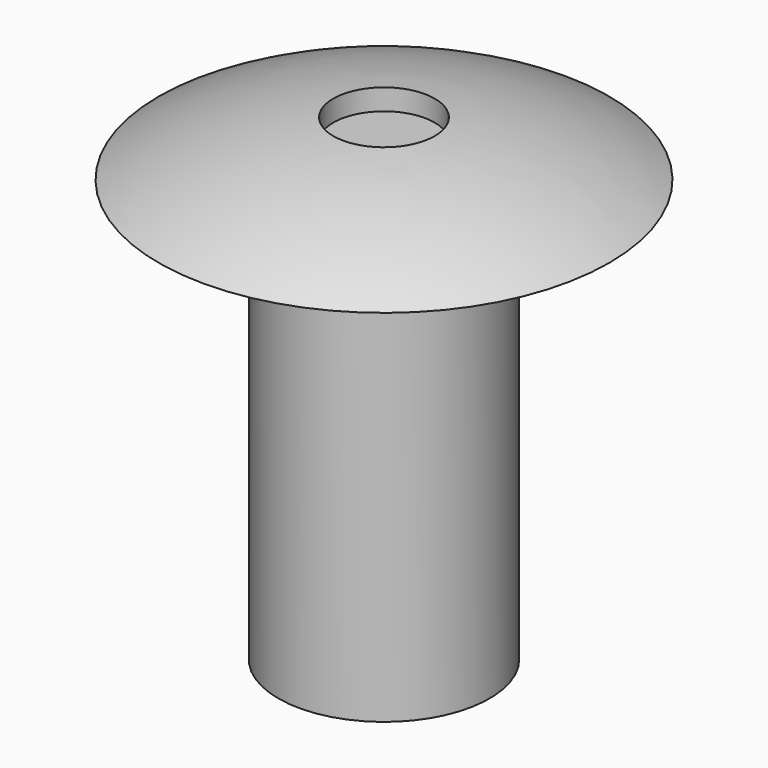
from build123d import *

# Parameters (mm, degrees)
F2_R      = 1.143
F3_DEPTH  = 1.275694
F3_FACE_R = 1.143
F4_DEPTH  = 0.762


with BuildPart() as f1:
    # F0 (on Front) → F1 (revolve)
    with BuildSketch(Plane.XZ):
        with BuildLine():
            ThreePointArc((0, 1.27), (-2.628273, 0.988091), (-5.08, 0))
            Line((-5.08, 0), (-2.38125, 0))
            Line((-2.38125, 0), (-2.38125, -9.525))
            Line((-2.38125, -9.525), (0, -9.525))
            Line((0, -9.525), (0, 1.27))
        make_face()
    revolve(axis=Axis((0, 0, -4.1275), (0, 0, 1)))

    # F2 (on Top) → F3 (cut, through all)
    with BuildSketch(Plane.XY):
        Circle(F2_R)
    extrude(amount=F3_DEPTH, mode=Mode.SUBTRACT)

    # F3_face (on face) → F4 (join)
    with BuildSketch(Plane.XY):
        Circle(F3_FACE_R)
    extrude(amount=F4_DEPTH)


solid = f1.part
